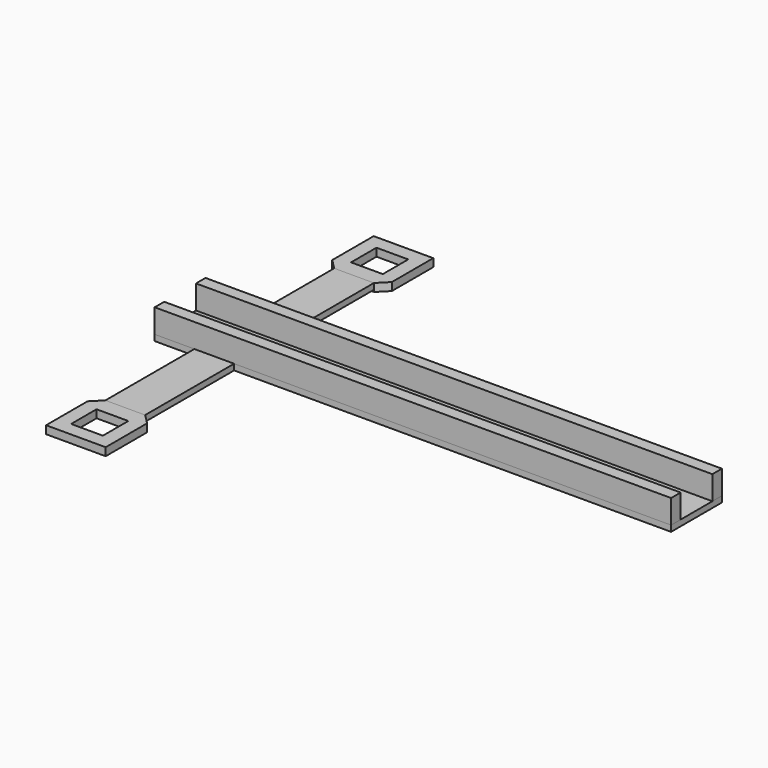
from build123d import *

# Parameters (mm, degrees)
F0_W     = 1651
F0_H     = 914.4
F0_W_2   = 152.4
F0_H_2   = 88.9
F1_DEPTH = 19.05
F2_W     = 38.1
F2_H     = 76.2
F3_DEPTH = 1651
F4_W     = 1397
F4_H     = 355.6
F4_W_2   = 127
F5_DEPTH = 19.051
F6_W     = 101.6
F6_H     = 101.6
F7_DEPTH = 25.4


with BuildPart() as f1:
    # F0 (on Top) → F1 (new body)
    with BuildSketch(Plane.XY):
        Rectangle(F0_W, F0_H)
        with Locations((-622.3, 0)):
            Rectangle(F0_W_2, F0_H_2, mode=Mode.SUBTRACT)
    extrude(amount=-F1_DEPTH)

    # F4 (on face) → F5 (cut, through all)
    with BuildSketch(Plane.XY):
        with Locations((127, -279.4)):
            Rectangle(F4_W, F4_H)
        with Locations((-762, -279.4)):
            Rectangle(F4_W_2, F4_H)
        with Locations((127, 279.4)):
            Rectangle(F4_W, F4_H)
        with Locations((-762, 279.4)):
            Rectangle(F4_W_2, F4_H)
    extrude(amount=-F5_DEPTH, mode=Mode.SUBTRACT)


with BuildPart() as f3:
    # F2 (on face) → F3 (new body)
    with BuildSketch(Plane.YZ.offset(825.5)):
        with Locations((-82.55, 38.1)):
            Rectangle(F2_W, F2_H)
    extrude(amount=-F3_DEPTH)


with BuildPart() as f3b:
    # F2 (on face) → F3, piece 2 (new body)
    with BuildSketch(Plane.YZ.offset(825.5)):
        with Locations((82.55, 38.1)):
            Rectangle(F2_W, F2_H)
    extrude(amount=-F3_DEPTH)


with BuildPart() as f7:
    # F6 (on face) → F7 (new body)
    with BuildSketch(Plane.XY):
        Polygon((-571.5, -457.2), (-698.5, -457.2), (-730.25, -488.95), (-730.25, -654.5928061962), (-539.75, -654.5928061962), (-539.75, -488.95), align=None)
        with Locations((-635, -559.3428061962)):
            Rectangle(F6_W, F6_H, mode=Mode.SUBTRACT)
    extrude(amount=-F7_DEPTH)


with BuildPart() as f7b:
    # F6 (on face) → F7, piece 2 (new body)
    with BuildSketch(Plane.XY):
        Polygon((-730.25, 488.95), (-698.5, 457.2), (-571.5, 457.2), (-539.75, 488.95), (-539.75, 654.5928061962), (-730.25, 654.5928061962), align=None)
        with Locations((-635, 559.3428061962)):
            Rectangle(F6_W, F6_H, mode=Mode.SUBTRACT)
    extrude(amount=-F7_DEPTH)


solid = Compound([f1.part, f3.part, f3b.part, f7.part, f7b.part])
